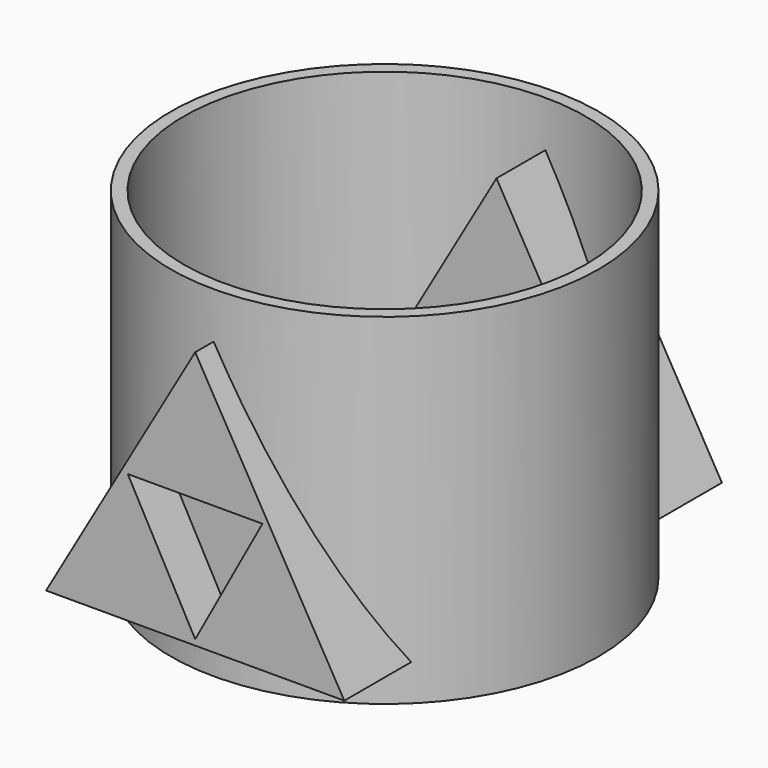
from build123d import *

# Parameters (mm, degrees)
F0_R      = 31.8731292534
F1_DEPTH  = 50.8
F2_R      = 29.9394143693
F4_DEPTH  = 47.752
F3_R      = 1.3670276657
F3_R_2    = 1.4605226194
F3_R_3    = 1.340090054
F3_R_4    = 1.298632057
F5_DEPTH  = 25.4
F6_DEPTH  = 25.4
F8_START  = 22.098
F8_DEPTH  = 13.208
F10_DEPTH = 67.1801292534
F11_START = -20.828
F11_DEPTH = 14.224
F12_DEPTH = 70.359
F14_START = -12.192
F14_DEPTH = 2.032
F16_START = -6.604
F16_DEPTH = 6.604


with BuildPart() as f1:
    # F0 (on Top) → F1 (new body)
    with BuildSketch(Plane.XY):
        Circle(F0_R)
    extrude(amount=F1_DEPTH)

    # F2 (on face) → F4 (cut)
    with BuildSketch(Plane.XY.offset(50.8)):
        Circle(F2_R)
    extrude(amount=-F4_DEPTH, mode=Mode.SUBTRACT)

    # F3 (on face) → F5 (cut)
    with BuildSketch(Plane(origin=(0, 0, 0), x_dir=(1, 0, 0), z_dir=(0, 0, -1))):
        with Locations((0, 23.9648092538)):
            Circle(F3_R)
        Circle(F3_R_2)
        with Locations((0, -22.0552626997)):
            Circle(F3_R_3)
        with Locations((-19.1909428686, 0)):
            Circle(F3_R_4)
        with Locations((20.7185801119, 0)):
            Circle(F3_R_4)
    extrude(amount=-F5_DEPTH, mode=Mode.SUBTRACT)

    # F3 (on face) → F6 (cut)
    with BuildSketch(Plane(origin=(0, 0, 0), x_dir=(1, 0, 0), z_dir=(0, 0, -1))):
        with Locations((0, 23.9648092538)):
            Circle(F3_R)
        Circle(F3_R_2)
        with Locations((0, -22.0552626997)):
            Circle(F3_R_3)
        with Locations((-19.1909428686, 0)):
            Circle(F3_R_4)
        with Locations((20.7185801119, 0)):
            Circle(F3_R_4)
    extrude(amount=-F6_DEPTH, mode=Mode.SUBTRACT)

    # F7 (on Front) → F8 (join)
    with BuildSketch(Plane.XZ.offset(F8_START)):
        Polygon((11.1125, 24.6736888855), (0, 43.9211034846), (-11.1125, 24.6736888855), align=None)
        Polygon((0, 5.4262742864), (-11.1125, 24.6736888855), (-22.225, 5.4262742864), align=None)
        Polygon((11.1125, 24.6736888855), (-11.1125, 24.6736888855), (0, 5.4262742864), align=None)
        Polygon((22.225, 5.4262742864), (11.1125, 24.6736888855), (0, 5.4262742864), align=None)
    extrude(amount=F8_DEPTH)

    # F9 (on face) → F10 (cut, through all)
    with BuildSketch(Plane.XZ.offset(35.306)):
        Polygon((10.0251361728, 24.6736888855), (-10.0464997813, 24.6736888855), (0, 6.265532691), align=None)
    extrude(amount=-F10_DEPTH, mode=Mode.SUBTRACT)

    # F7 (on Front) → F11 (join)
    with BuildSketch(Plane.XZ.offset(F11_START)):
        Polygon((11.1125, 24.6736888855), (0, 43.9211034846), (-11.1125, 24.6736888855), align=None)
        Polygon((0, 5.4262742864), (-11.1125, 24.6736888855), (-22.225, 5.4262742864), align=None)
        Polygon((11.1125, 24.6736888855), (-11.1125, 24.6736888855), (0, 5.4262742864), align=None)
        Polygon((22.225, 5.4262742864), (11.1125, 24.6736888855), (0, 5.4262742864), align=None)
    extrude(amount=-F11_DEPTH)

    # F9 (on face) → F12 (cut, through all)
    with BuildSketch(Plane.XZ.offset(35.306)):
        Polygon((10.0251361728, 24.6736888855), (-10.0464997813, 24.6736888855), (0, 6.265532691), align=None)
    extrude(amount=-F12_DEPTH, mode=Mode.SUBTRACT)

    # F13 (on face) → F14 (join)
    with BuildSketch(Plane(origin=(0, 35.052, 0), x_dir=(-1, 0, 0), z_dir=(0, 1, 0)).offset(F14_START)):
        Polygon((10.0464997813, 24.6736888855), (-10.0251361728, 24.6736888855), (0, 6.265532691), align=None)
    extrude(amount=-F14_DEPTH)

    # F15 (on face) → F16 (join)
    with BuildSketch(Plane.XZ.offset(35.306).offset(F16_START)):
        Polygon((10.0251361728, 24.6736888855), (-10.0464997813, 24.6736888855), (0, 6.265532691), align=None)
    extrude(amount=-F16_DEPTH)


solid = f1.part
